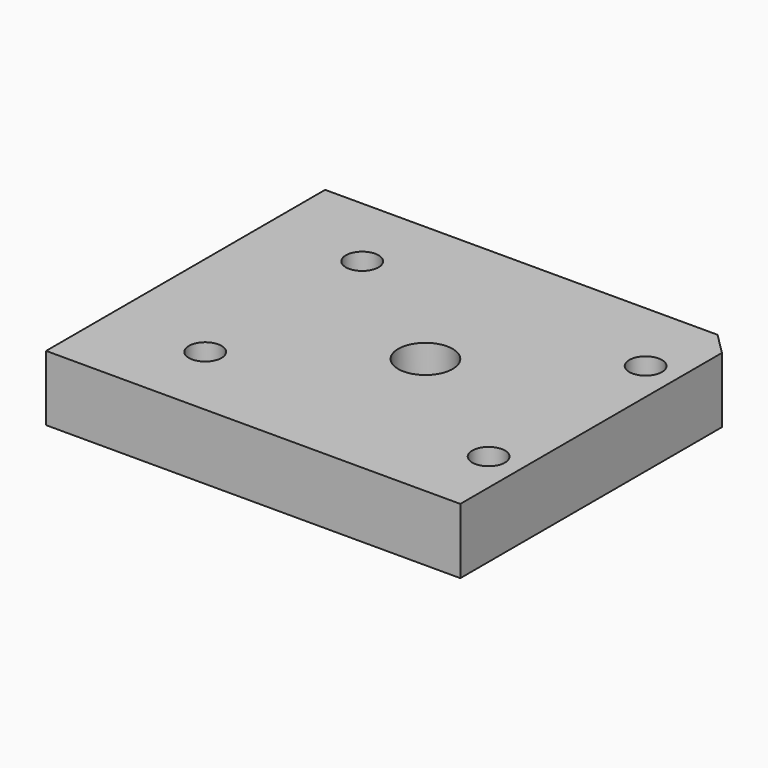
from build123d import *

# Parameters (mm, degrees)
CYLINDER918_R     = 5
CYLINDER918_DEPTH = 3
CYLINDER913_R     = 2.5
CYLINDER913_DEPTH = 20
CYLINDER909_R     = 1.5
CYLINDER909_DEPTH = 20
CYLINDER910_R     = 1.5
CYLINDER910_DEPTH = 20
CYLINDER916_R     = 1.5
CYLINDER916_DEPTH = 20
CYLINDER912_R     = 1.5
CYLINDER912_DEPTH = 20
CYLINDER911_R     = 3
CYLINDER911_DEPTH = 3
CYLINDER917_R     = 3
CYLINDER917_DEPTH = 3
CYLINDER915_R     = 3
CYLINDER915_DEPTH = 3
CYLINDER914_R     = 3
CYLINDER914_DEPTH = 3
BOX433_W          = 38
BOX433_H          = 32
BOX433_DEPTH      = 6
CHAMFER005_SIZE   = 2


with BuildPart() as obj1:
    # Cylinder918 → Cylinder918 (new body)
    with BuildSketch(Plane(origin=(-96, 16, 50), x_dir=(1, 0, 0), z_dir=(0, 0, 1))):
        Circle(CYLINDER918_R)
    extrude(amount=CYLINDER918_DEPTH)


with BuildPart() as obj2:
    # Cylinder913 → Cylinder913 (new body)
    with BuildSketch(Plane(origin=(-96, 16, 50), x_dir=(1, 0, 0), z_dir=(0, 0, 1))):
        Circle(CYLINDER913_R)
    extrude(amount=CYLINDER913_DEPTH)


with BuildPart() as obj3:
    # Cylinder909 → Cylinder909 (new body)
    with BuildSketch(Plane(origin=(-83, 25, 54), x_dir=(1, 0, 0), z_dir=(0, 0, 1))):
        Circle(CYLINDER909_R)
    extrude(amount=CYLINDER909_DEPTH)


with BuildPart() as obj4:
    # Cylinder910 → Cylinder910 (new body)
    with BuildSketch(Plane(origin=(-109, 7, 54), x_dir=(1, 0, 0), z_dir=(0, 0, 1))):
        Circle(CYLINDER910_R)
    extrude(amount=CYLINDER910_DEPTH)


with BuildPart() as obj5:
    # Cylinder916 → Cylinder916 (new body)
    with BuildSketch(Plane(origin=(-109, 25, 54), x_dir=(1, 0, 0), z_dir=(0, 0, 1))):
        Circle(CYLINDER916_R)
    extrude(amount=CYLINDER916_DEPTH)


with BuildPart() as compound499:
    # Cylinder912 → Cylinder912 (new body)
    with BuildSketch(Plane(origin=(-83, 7, 54), x_dir=(1, 0, 0), z_dir=(0, 0, 1))):
        Circle(CYLINDER912_R)
    extrude(amount=CYLINDER912_DEPTH)

    # Compound499: union obj3, obj4, obj5
    add(obj3.part)
    add(obj4.part)
    add(obj5.part)


with BuildPart() as compound499_1:
    # Compound499 placement: moved
    add(compound499.part.moved(Location((0, 0, -4))))


with BuildPart() as obj6:
    # Cylinder911 → Cylinder911 (new body)
    with BuildSketch(Plane(origin=(-83, 25, 54), x_dir=(1, 0, 0), z_dir=(0, 0, 1))):
        Circle(CYLINDER911_R)
    extrude(amount=CYLINDER911_DEPTH)


with BuildPart() as obj7:
    # Cylinder917 → Cylinder917 (new body)
    with BuildSketch(Plane(origin=(-109, 7, 54), x_dir=(1, 0, 0), z_dir=(0, 0, 1))):
        Circle(CYLINDER917_R)
    extrude(amount=CYLINDER917_DEPTH)


with BuildPart() as obj8:
    # Cylinder915 → Cylinder915 (new body)
    with BuildSketch(Plane(origin=(-109, 25, 54), x_dir=(1, 0, 0), z_dir=(0, 0, 1))):
        Circle(CYLINDER915_R)
    extrude(amount=CYLINDER915_DEPTH)


with BuildPart() as compound500:
    # Cylinder914 → Cylinder914 (new body)
    with BuildSketch(Plane(origin=(-83, 7, 54), x_dir=(1, 0, 0), z_dir=(0, 0, 1))):
        Circle(CYLINDER914_R)
    extrude(amount=CYLINDER914_DEPTH)

    # Compound500: union obj6, obj7, obj8
    add(obj6.part)
    add(obj7.part)
    add(obj8.part)


with BuildPart() as compound500_1:
    # Compound500 placement: moved
    add(compound500.part.moved(Location((0, 0, -4))))


with BuildPart() as obj9:
    # Box433 → Box433 (new body)
    with BuildSketch(Plane(origin=(-112, 0, 50), x_dir=(1, 0, 0), z_dir=(0, 0, 1))):
        with Locations((19, 16)):
            Rectangle(BOX433_W, BOX433_H)
    extrude(amount=BOX433_DEPTH)

    # Cut411: cut Compound500
    add(compound500_1.part, mode=Mode.SUBTRACT)

    # Cut414: cut Compound499
    add(compound499_1.part, mode=Mode.SUBTRACT)

    # Cut413: cut obj2
    add(obj2.part, mode=Mode.SUBTRACT)

    # Cut412: cut obj1
    add(obj1.part, mode=Mode.SUBTRACT)

    # Chamfer005
    chamfer005_edges = [obj9.edges().sort_by_distance(p)[0] for p in [
        (-112, 32, 53),
    ]]
    chamfer(chamfer005_edges, length=CHAMFER005_SIZE)


with BuildPart() as obj10:
    # mirror001: instance of obj9
    add(obj9.part.mirror(Plane(origin=(0, 0, 0), x_dir=(0, -1, 0), z_dir=(1, 0, 0))))


solid = obj10.part
